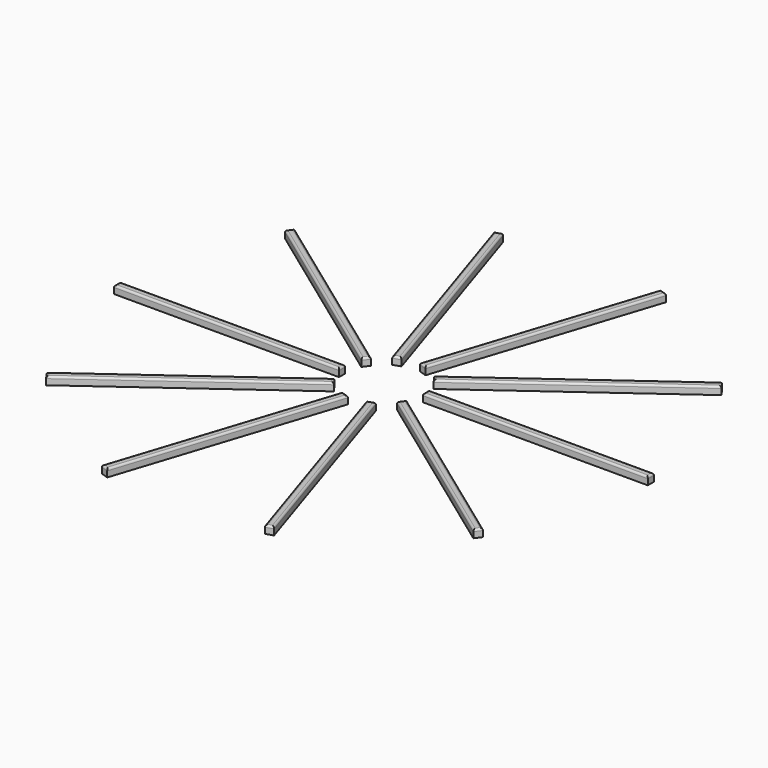
from build123d import *

# Parameters (mm, degrees)
BOX002_W       = 29
BOX002_H       = 1
BOX002_DEPTH   = 1
FILLET003_R    = 0.25
ARRAY003_COUNT = 10


with BuildPart() as obj1:
    # Box002 → Box002 (new body)
    with BuildSketch(Plane.XY.offset(40)):
        with Locations((14.5, 0.5)):
            Rectangle(BOX002_W, BOX002_H)
    extrude(amount=BOX002_DEPTH)

    # Fillet003
    fillet003_edges = [obj1.edges().sort_by_distance(p)[0] for p in [
        (0, 0.5, 41),
        (29, 0.5, 41),
        (14.5, 0, 41),
        (14.5, 1, 41),
    ]]
    fillet(fillet003_edges, radius=FILLET003_R)


with BuildPart() as array003_copy1:
    # Array003: instance of obj1
    add(obj1.part.rotate(Axis((-5, 0, 0), (0, 0, 1)), 1 * 360 / ARRAY003_COUNT))


with BuildPart() as array003_copy2:
    # Array003: instance of obj1
    add(obj1.part.rotate(Axis((-5, 0, 0), (0, 0, 1)), 2 * 360 / ARRAY003_COUNT))


with BuildPart() as array003_copy3:
    # Array003: instance of obj1
    add(obj1.part.rotate(Axis((-5, 0, 0), (0, 0, 1)), 3 * 360 / ARRAY003_COUNT))


with BuildPart() as array003_copy4:
    # Array003: instance of obj1
    add(obj1.part.rotate(Axis((-5, 0, 0), (0, 0, 1)), 4 * 360 / ARRAY003_COUNT))


with BuildPart() as array003_copy5:
    # Array003: instance of obj1
    add(obj1.part.rotate(Axis((-5, 0, 0), (0, 0, 1)), 5 * 360 / ARRAY003_COUNT))


with BuildPart() as array003_copy6:
    # Array003: instance of obj1
    add(obj1.part.rotate(Axis((-5, 0, 0), (0, 0, 1)), 6 * 360 / ARRAY003_COUNT))


with BuildPart() as array003_copy7:
    # Array003: instance of obj1
    add(obj1.part.rotate(Axis((-5, 0, 0), (0, 0, 1)), 7 * 360 / ARRAY003_COUNT))


with BuildPart() as array003_copy8:
    # Array003: instance of obj1
    add(obj1.part.rotate(Axis((-5, 0, 0), (0, 0, 1)), 8 * 360 / ARRAY003_COUNT))


with BuildPart() as array003_copy9:
    # Array003: instance of obj1
    add(obj1.part.rotate(Axis((-5, 0, 0), (0, 0, 1)), 9 * 360 / ARRAY003_COUNT))


with BuildPart() as obj1_1:
    # Array003 placement: moved
    add(obj1.part.moved(Location((5, 0, 0))))


with BuildPart() as array003_copy1_1:
    # Array003 placement: moved
    add(array003_copy1.part.moved(Location((5, 0, 0))))


with BuildPart() as array003_copy2_1:
    # Array003 placement: moved
    add(array003_copy2.part.moved(Location((5, 0, 0))))


with BuildPart() as array003_copy3_1:
    # Array003 placement: moved
    add(array003_copy3.part.moved(Location((5, 0, 0))))


with BuildPart() as array003_copy4_1:
    # Array003 placement: moved
    add(array003_copy4.part.moved(Location((5, 0, 0))))


with BuildPart() as array003_copy5_1:
    # Array003 placement: moved
    add(array003_copy5.part.moved(Location((5, 0, 0))))


with BuildPart() as array003_copy6_1:
    # Array003 placement: moved
    add(array003_copy6.part.moved(Location((5, 0, 0))))


with BuildPart() as array003_copy7_1:
    # Array003 placement: moved
    add(array003_copy7.part.moved(Location((5, 0, 0))))


with BuildPart() as array003_copy8_1:
    # Array003 placement: moved
    add(array003_copy8.part.moved(Location((5, 0, 0))))


with BuildPart() as array003_copy9_1:
    # Array003 placement: moved
    add(array003_copy9.part.moved(Location((5, 0, 0))))


solid = Compound([obj1_1.part, array003_copy1_1.part, array003_copy2_1.part, array003_copy3_1.part, array003_copy4_1.part, array003_copy5_1.part, array003_copy6_1.part, array003_copy7_1.part, array003_copy8_1.part, array003_copy9_1.part])
